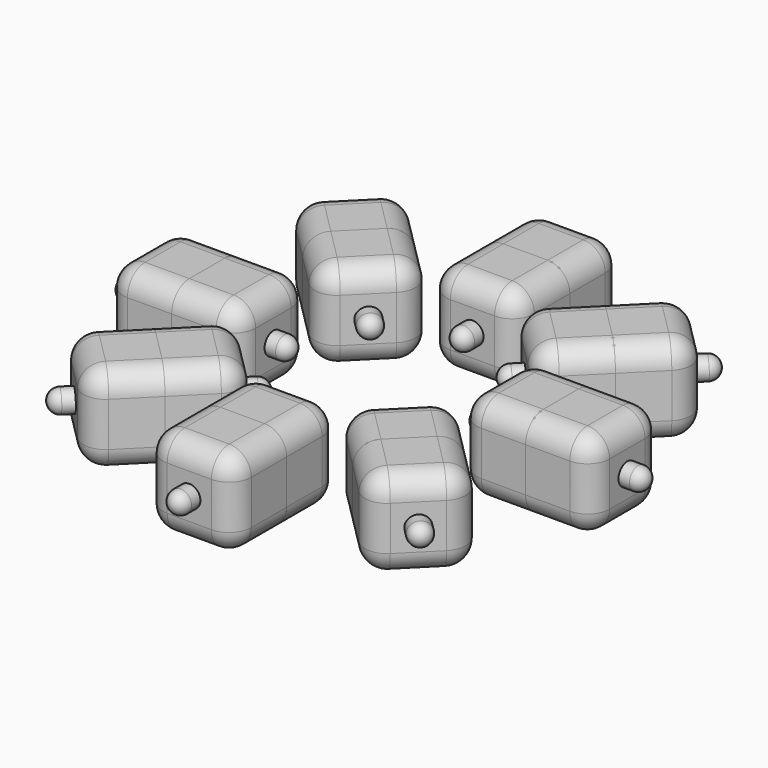
from build123d import *

# Parameters (mm, degrees)
F0_W      = 20
F0_H      = 20
F1_DEPTH  = 20
F2_R      = 5
F3_R      = 2.5
F4_DEPTH  = 5
F5_R      = 2.5
F11_COUNT = 8


with BuildPart() as f1:
    # F0 (on Top) → F1 (new body)
    with BuildSketch(Plane.XY):
        with Locations((10, 10)):
            Rectangle(F0_W, F0_H)
    extrude(amount=F1_DEPTH)

    # F2
    f2_edges = [f1.edges().sort_by_distance(p)[0] for p in [
        (20, 20, 10),
        (20, 0, 10),
        (20, 10, 20),
        (20, 10, 0),
        (10, 20, 0),
        (0, 10, 20),
        (10, 0, 20),
        (10, 0, 0),
        (0, 20, 10),
        (0, 0, 10),
        (0, 10, 0),
        (10, 20, 20),
    ]]
    fillet(f2_edges, radius=F2_R)

    # F3 (on face) → F4 (join)
    with BuildSketch(Plane.XZ):
        with Locations((10, 10)):
            Circle(F3_R)
    extrude(amount=F4_DEPTH)

    # F5
    f5_edges = [f1.edges().sort_by_distance(p)[0] for p in [
        (7.5, -5, 10),
    ]]
    fillet(f5_edges, radius=F5_R)


with BuildPart() as f10_1:
    # F10: instance of F1
    add(f1.part.mirror(Plane.XZ.offset(-15)))


with BuildPart() as f11_1:
    # F11: instance of F1
    add(f1.part.rotate(Axis((10, -25, 10), (0, 0, -1)), 1 * 360 / F11_COUNT))


with BuildPart() as f11_2:
    # F11: instance of F1
    add(f1.part.rotate(Axis((10, -25, 10), (0, 0, -1)), 2 * 360 / F11_COUNT))


with BuildPart() as f11_3:
    # F11: instance of F1
    add(f1.part.rotate(Axis((10, -25, 10), (0, 0, -1)), 3 * 360 / F11_COUNT))


with BuildPart() as f11_4:
    # F11: instance of F1
    add(f1.part.rotate(Axis((10, -25, 10), (0, 0, -1)), 4 * 360 / F11_COUNT))


with BuildPart() as f11_5:
    # F11: instance of F1
    add(f1.part.rotate(Axis((10, -25, 10), (0, 0, -1)), 5 * 360 / F11_COUNT))


with BuildPart() as f11_6:
    # F11: instance of F1
    add(f1.part.rotate(Axis((10, -25, 10), (0, 0, -1)), 6 * 360 / F11_COUNT))


with BuildPart() as f11_7:
    # F11: instance of F1
    add(f1.part.rotate(Axis((10, -25, 10), (0, 0, -1)), 7 * 360 / F11_COUNT))


with BuildPart() as f11_8:
    # F11: instance of F10_1
    add(f10_1.part.rotate(Axis((10, -25, 10), (0, 0, -1)), 1 * 360 / F11_COUNT))


with BuildPart() as f11_9:
    # F11: instance of F10_1
    add(f10_1.part.rotate(Axis((10, -25, 10), (0, 0, -1)), 2 * 360 / F11_COUNT))


with BuildPart() as f11_10:
    # F11: instance of F10_1
    add(f10_1.part.rotate(Axis((10, -25, 10), (0, 0, -1)), 3 * 360 / F11_COUNT))


with BuildPart() as f11_11:
    # F11: instance of F10_1
    add(f10_1.part.rotate(Axis((10, -25, 10), (0, 0, -1)), 4 * 360 / F11_COUNT))


with BuildPart() as f11_12:
    # F11: instance of F10_1
    add(f10_1.part.rotate(Axis((10, -25, 10), (0, 0, -1)), 5 * 360 / F11_COUNT))


with BuildPart() as f11_13:
    # F11: instance of F10_1
    add(f10_1.part.rotate(Axis((10, -25, 10), (0, 0, -1)), 6 * 360 / F11_COUNT))


with BuildPart() as f11_14:
    # F11: instance of F10_1
    add(f10_1.part.rotate(Axis((10, -25, 10), (0, 0, -1)), 7 * 360 / F11_COUNT))


solid = Compound([f1.part, f10_1.part, f11_1.part, f11_2.part, f11_3.part, f11_4.part, f11_5.part, f11_6.part, f11_7.part, f11_8.part, f11_9.part, f11_10.part, f11_11.part, f11_12.part, f11_13.part, f11_14.part])
